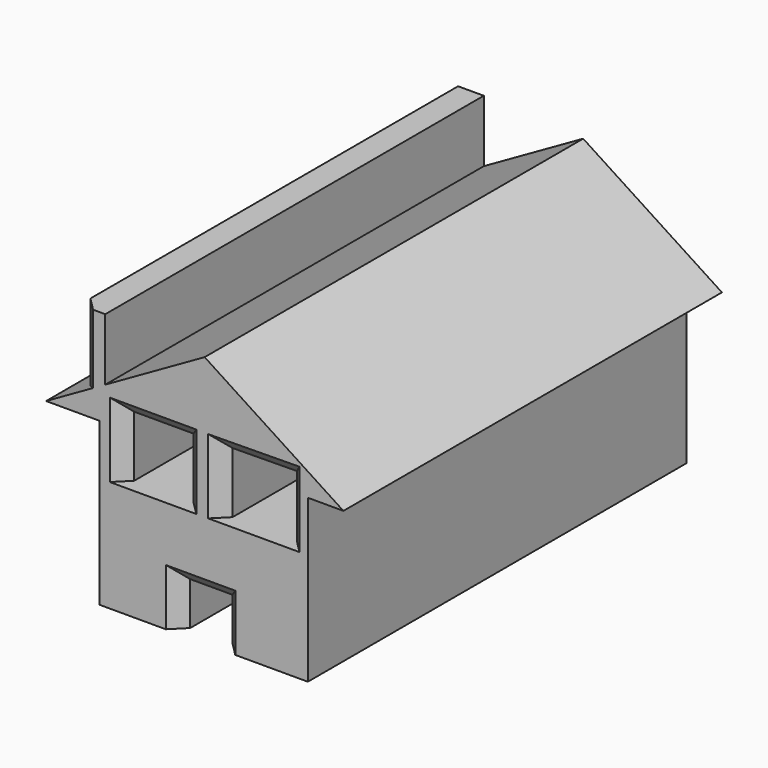
from build123d import *

# Parameters (mm, degrees)
F1_DEPTH = 76.2
F2_W     = 22.3462916911
F2_H     = 22.860001307
F3_DEPTH = 101.6
F4_SIZE  = 5.08
F5_SIZE  = 5.08


with BuildPart() as f1:
    # F0 (on Front) → F1 (new body)
    with BuildSketch(Plane.XZ):
        Polygon((-47.0042712986, 22.1868652862), (-37.3558938123, 27.6764601325), (-37.3558938123, 50.9855039418), (-47.0042712986, 50.9855039418), align=None)
        Polygon((52.1413497627, 15.0259546936), (0, 48.9306785166), (-37.3558938123, 27.6764601325), (-47.0042712986, 22.1868652862), (-59.5901124179, 15.0259546936), (-39.5555049181, 15.0259546936), (-39.5555049181, -45.8484254777), (-9.503595531, -45.8484254777), (-9.503595531, -29.6666305512), (6.4213485457, -29.6666305512), (6.4213485457, -45.8484254777), (38.784943521, -45.8484254777), (38.784943521, 15.0259546936), align=None)
        Polygon((-30.565617606, 7.4487647507), (-30.565617606, 18.8787654042), (-19.3924717605, 18.8787654042), (-8.219325915, 18.8787654042), (-8.219325915, 7.4487647507), (-8.219325915, -3.9812359028), (-19.3924717605, -3.9812359028), (-30.565617606, -3.9812359028), align=None, mode=Mode.SUBTRACT)
        Polygon((6.4213485457, 7.4487647507), (6.4213485457, 18.8787654042), (17.9797746241, 19.0017270067), (30.5656213313, 19.1356185824), (30.5656213313, 7.5771913398), (30.5656213313, -3.9812359028), (17.9797746241, -3.9812359028), (6.4213485457, -3.9812359028), align=None, mode=Mode.SUBTRACT)
    extrude(amount=F1_DEPTH)

    # F2 (on face) → F3 (join)
    with BuildSketch(Plane.XZ.offset(76.2)):
        Polygon((0, 48.9306785166), (-37.3558938123, 27.6764601325), (-37.3558938123, 50.9855039418), (-47.0042712986, 50.9855039418), (-47.0042712986, 22.1868652862), (-59.5901124179, 15.0259546936), (-39.5555049181, 15.0259546936), (-39.5555049181, -45.8484254777), (-9.503595531, -45.8484254777), (-9.503595531, -29.6666305512), (6.4213485457, -29.6666305512), (6.4213485457, -45.8484254777), (38.784943521, -45.8484254777), (38.784943521, 15.0259546936), (52.1413497627, 15.0259546936), align=None)
        with Locations((-19.3924717605, 7.4487647507)):
            Rectangle(F2_W, F2_H, mode=Mode.SUBTRACT)
        Polygon((30.5656213313, -3.9812359028), (6.4213485457, -3.9812359028), (6.4213485457, 18.8787654042), (30.5656213313, 19.1356185824), align=None, mode=Mode.SUBTRACT)
    extrude(amount=F3_DEPTH)

    # F4
    f4_edges = [f1.edges().sort_by_distance(p)[0] for p in [
        (-30.565618, -177.8, 7.448765),
        (-19.392472, -177.8, 18.878765),
        (-8.219326, -177.8, 7.448765),
        (6.421349, -177.8, 7.448765),
        (18.493485, -177.8, 19.007192),
        (30.565621, -177.8, 7.577191),
        (-1.541123, -177.8, -29.666631),
        (-9.503596, -177.8, -37.757528),
        (6.421349, -177.8, -37.757528),
    ]]
    chamfer(f4_edges, length=F4_SIZE)

    # F5
    f5_edges = [f1.edges().sort_by_distance(p)[0] for p in [
        (-47.004271, -177.8, 36.586185),
    ]]
    chamfer(f5_edges, length=F5_SIZE)


with BuildPart() as f1b:
    # F0 (on Front) → F1, piece 2 (new body)
    with BuildSketch(Plane.XZ):
        Polygon((2.8253942728, -40.1976443827), (2.5685403962, -36.0879786313), (0, -36.0879786313), (0, -40.1976443827), align=None)
    extrude(amount=F1_DEPTH)


solid = Compound([f1.part, f1b.part])
